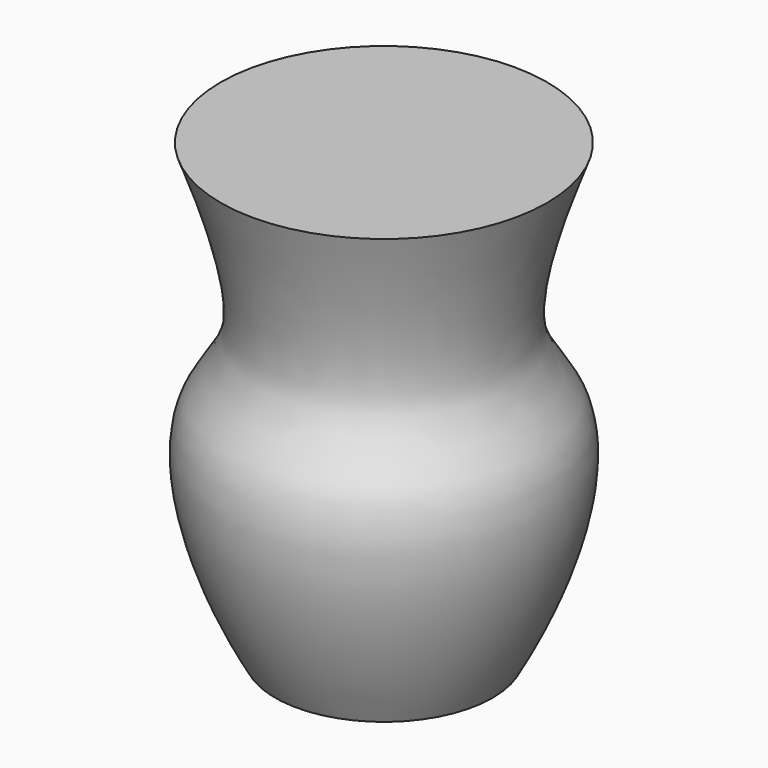
from build123d import *


with BuildPart() as f1:
    # F0 (on Front) → F1 (revolve)
    with BuildSketch(Plane.XZ):
        with BuildLine():
            add(Edge.make_bspline(
                [(18, 50), (16.5780299098, 46.1582849838), (10.8119365595, 30.7855272013), (20.922161248, 24.2847389923), (17.3899637725, 9.5347716643), (12, 0)],
                knots=[0, 0, 0, 0, 0.3490625199, 0.5968966288, 1, 1, 1, 1], degree=3))
            Line((18, 50), (0, 50))
            Line((0, 50), (0, 0))
            Line((0, 0), (12, 0))
        make_face()
    revolve(axis=Axis((0, 0, 25), (0, 0, 1)))


solid = f1.part
